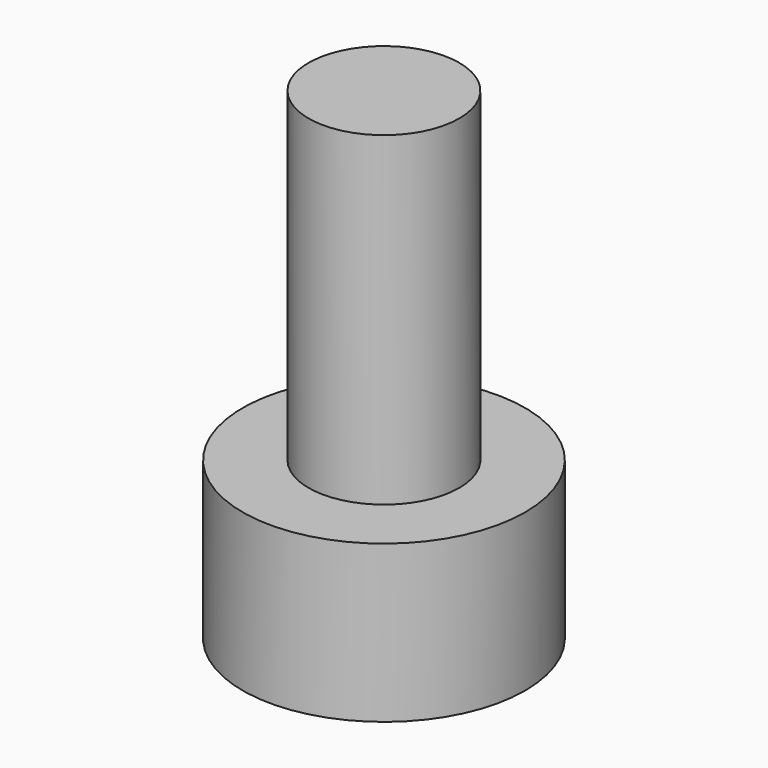
from build123d import *

# Parameters (mm, degrees)
F0_R      = 2.4
F1_DEPTH  = 10.36
F0_R_2    = 4.5
F1_FACE_R = 2.4
F2_DEPTH  = 5
F3_R      = 3
F4_DEPTH  = 3


with BuildPart() as f1:
    # F0 (on Top) → F1 (new body)
    with BuildSketch(Plane.XY):
        Circle(F0_R)
    extrude(amount=F1_DEPTH)

    # F0 (on Top) + F1_face (on face) → F2 (join)
    with BuildSketch(Plane.XY):
        Circle(F0_R_2)
        Circle(F0_R, mode=Mode.SUBTRACT)
    with BuildSketch(Plane(origin=(0, 0, 0), x_dir=(1, 0, 0), z_dir=(0, 0, -1))):
        Circle(F1_FACE_R)
    extrude(amount=-F2_DEPTH, dir=(0, 0, 1))

    # F3 (on face) → F4 (cut)
    with BuildSketch(Plane(origin=(0, 0, -5), x_dir=(1, 0, 0), z_dir=(0, 0, -1))):
        Circle(F3_R)
    extrude(amount=-F4_DEPTH, mode=Mode.SUBTRACT)


solid = f1.part
